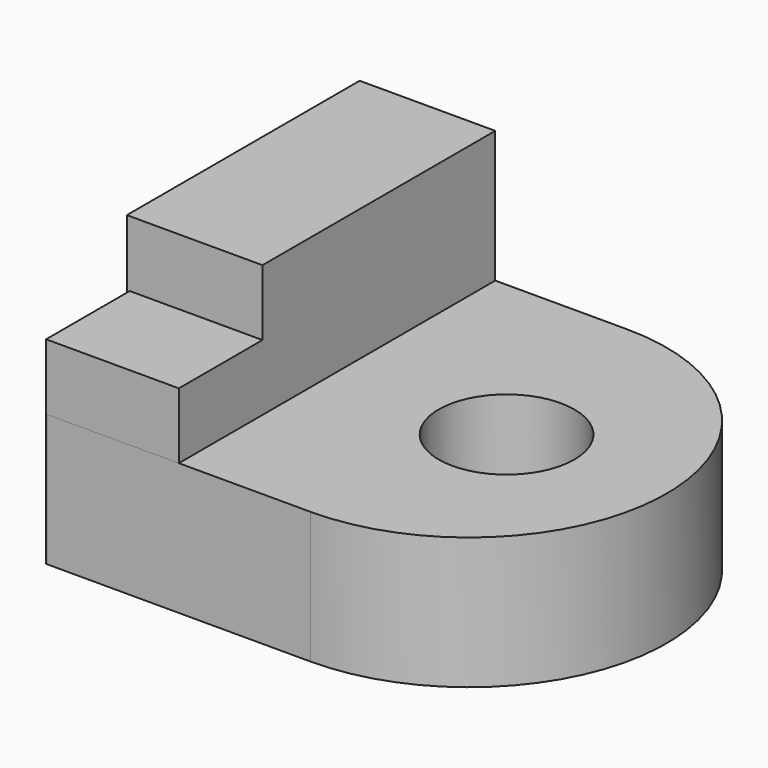
from build123d import *

# Parameters (mm, degrees)
F0_W     = 25.4
F0_H     = 38.1
F1_DEPTH = 12.7
F2_R     = 6.5370938685
F3_DEPTH = 12.701
F4_W     = 12.7907153219
F4_H     = 10.0692855194
F5_DEPTH = 19.05
F6_W     = 13.0628570914
F6_H     = 28.0307149515
F7_DEPTH = 25.4


with BuildPart() as f1:
    # F0 (on Top) → F1 (new body)
    with BuildSketch(Plane.XY):
        Rectangle(F0_W, F0_H)
        with BuildLine():
            ThreePointArc((12.7, -19.05), (31.75, 0), (12.7, 19.05))
            Line((12.7, 19.05), (12.7, -19.05))
        make_face()
    extrude(amount=F1_DEPTH)

    # F2 (on Top) → F3 (cut, through all)
    with BuildSketch(Plane.XY):
        with Locations((16.3285713643, 0)):
            Circle(F2_R)
    extrude(amount=F3_DEPTH, mode=Mode.SUBTRACT)

    # F4 (on Top) → F5 (join)
    with BuildSketch(Plane.XY):
        with Locations((-6.3953576609, -14.0153574757)):
            Rectangle(F4_W, F4_H)
    extrude(amount=F5_DEPTH)

    # F6 (on Top) → F7 (join)
    with BuildSketch(Plane.XY):
        with Locations((-6.5314285457, 5.0346427597)):
            Rectangle(F6_W, F6_H)
    extrude(amount=F7_DEPTH)


solid = f1.part
